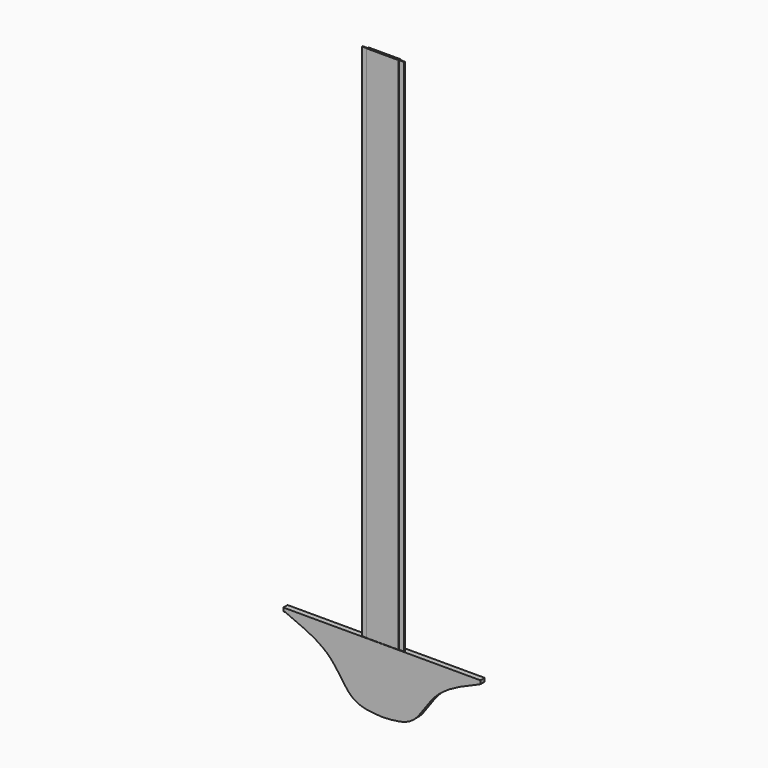
from build123d import *

# Parameters (mm, degrees)
F1_DEPTH = 2540
F3_DEPTH = 12.7
F4_W     = 25.6649032235
F4_H     = 4.0781614371
F5_DEPTH = 2540
F4_W_2   = 25.6649181247
F4_H_2   = 3.8064057007


with BuildPart() as f1:
    # F0 (on Top) → F1 (new body)
    with BuildSketch(Plane.XY):
        Polygon((74.2080868222, -0.0106971711), (-77.7766420506, -0.0106971711), (-77.7766420506, -3.479225561), (-77.7766420506, -10.9302010387), (74.2080868222, -10.9302010387), (74.2080868222, -3.479225561), align=None)
    extrude(amount=F1_DEPTH)


with BuildPart() as f3:
    # F2 (on Front) → F3 (new body, symmetric)
    with BuildSketch(Plane.XZ):
        with BuildLine():
            add(Edge.make_bspline(
                [(463.5899960995, 58.9580051601), (384.1037928263, 26.2555374725), (236.7053720041, -34.3875917202), (159.1783455408, -221.9154242441), (51.1824494287, -227.2994788478), (0, -229.851141572)],
                knots=[0, 0, 0, 0, 0.3810833054, 0.7066770724, 1, 1, 1, 1], degree=3))
            Line((463.5899960995, 58.9580051601), (-463.5899960995, 58.9580051601))
            add(Edge.make_bspline(
                [(-463.5899960995, 58.9580051601), (-384.1037928263, 26.2555374725), (-236.7053720041, -34.3875917202), (-159.1783455408, -221.9154242441), (-51.1824494287, -227.2994788478), (0, -229.851141572)],
                knots=[0, 0, 0, 0, 0.3810833054, 0.7066770724, 1, 1, 1, 1], degree=3))
        make_face()
        Polygon((-463.5899960995, 58.9580051601), (463.5899960995, 58.9580051601), (463.5899960995, 74.7133120894), (463.5899960995, 75.33300668), (-472.669005394, 75.33300668), (-472.669005394, 58.9580051601), align=None)
    extrude(amount=F3_DEPTH, both=True)


with BuildPart() as f5:
    # F4 (on Top) → F5 (new body)
    with BuildSketch(Plane.XY):
        with Locations((-89.0850834548, -7.6683352236)):
            Rectangle(F4_W, F4_H)
    extrude(amount=F5_DEPTH)


with BuildPart() as f5b:
    # F4 (on Top) → F5, piece 2 (new body)
    with BuildSketch(Plane.XY):
        with Locations((86.0643349588, -7.5324573554)):
            Rectangle(F4_W_2, F4_H_2)
    extrude(amount=F5_DEPTH)


solid = Compound([f1.part, f3.part, f5.part, f5b.part])
